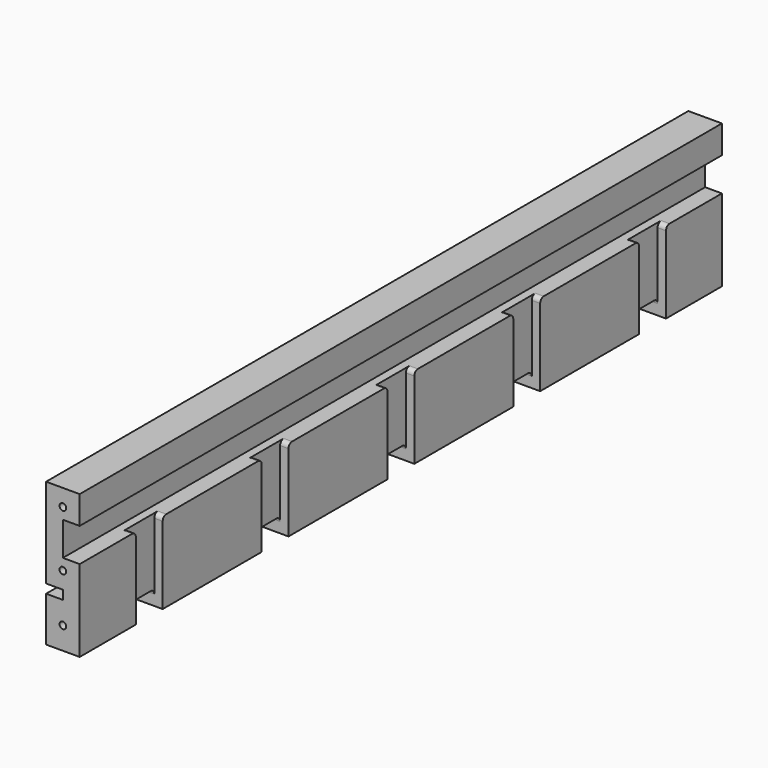
from build123d import *

# Parameters (mm, degrees)
SKETCH_W               = 358.3
SKETCH_H               = 64
PAD_DEPTH              = 15
SKETCH001_W            = 358.3
SKETCH001_H            = 4
POCKET_DEPTH           = 7.5
SKETCH002_R            = 1.5
POCKET001_DEPTH        = 20
SKETCH003_R            = 1.5
POCKET002_DEPTH        = 20
POCKET003_DEPTH        = 7.5
POCKET004_DEPTH        = 3.75
LINEARPATTERN_COUNT    = 5
LINEARPATTERN_PITCH    = 70.2
POCKET005_DEPTH        = 739.810922
LINEARPATTERN001_COUNT = 5
LINEARPATTERN001_PITCH = 70.2


with BuildPart() as part:
    # Sketch → Pad (new body)
    with BuildSketch(Plane.YZ):
        with Locations((179.15, 32)):
            Rectangle(SKETCH_W, SKETCH_H)
    extrude(amount=PAD_DEPTH)

    # Sketch001 (on Face5 of Pad) → Pocket (cut)
    with BuildSketch(Plane(origin=(0, 0, 0), x_dir=(0, 1, 0), z_dir=(-1, 0, 0))):
        with Locations((179.15, -22)):
            Rectangle(SKETCH001_W, SKETCH001_H)
    extrude(amount=-POCKET_DEPTH, mode=Mode.SUBTRACT)

    # Sketch002 (on Face3 of Pocket) → Pocket001 (cut)
    with BuildSketch(Plane(origin=(0, 0, 0), x_dir=(0, 0, -1), z_dir=(0, -1, 0))):
        with Locations((-56.5, 7.5)):
            Circle(SKETCH002_R)
        with Locations((-31.5, 7.5)):
            Circle(SKETCH002_R)
        with Locations((-10, 7.5)):
            Circle(SKETCH002_R)
    extrude(amount=-POCKET001_DEPTH, mode=Mode.SUBTRACT)

    # Sketch003 (on Face2 of Pocket001) → Pocket002 (cut)
    with BuildSketch(Plane.ZX.offset(358.3)):
        with Locations((10, 7.5)):
            Circle(SKETCH003_R)
        with Locations((31.5, 7.5)):
            Circle(SKETCH003_R)
        with Locations((56.5, 7.5)):
            Circle(SKETCH003_R)
    extrude(amount=-POCKET002_DEPTH, mode=Mode.SUBTRACT)

    # Sketch004 (on Face5 of Pocket002) → Pocket003 (cut)
    with BuildSketch(Plane.YZ.offset(15)):
        Polygon((0, 36.5), (358.3, 36.5), (358.3, 51.5), (0, 51.5), (0, 44), align=None)
    extrude(amount=-POCKET003_DEPTH, mode=Mode.SUBTRACT)

    # Sketch005 (on Face5 of Pocket003) → Pocket004 (cut)
    with BuildSketch(Plane.YZ.offset(15)):
        with BuildLine():
            Line((46.3, 34.5), (46.3, 0))
            Line((46.3, 0), (31.3, 0))
            Line((31.3, 0), (31.3, 34.5))
            ThreePointArc((31.3, 34.5), (30.714214, 35.914214), (29.3, 36.5))
            Line((29.3, 36.5), (48.3, 36.5))
            ThreePointArc((48.3, 36.5), (46.885786, 35.914214), (46.3, 34.5))
        make_face()
    pocket004 = extrude(amount=-POCKET004_DEPTH, mode=Mode.SUBTRACT)

    # LinearPattern: Pocket004 ×5
    with Locations(*[(0, i * LINEARPATTERN_PITCH, 0) for i in range(1, LINEARPATTERN_COUNT)]):
        add(pocket004, mode=Mode.SUBTRACT)

    # Sketch006 (on Face6 of MultiTransform) → Pocket005 (cut, through all)
    with BuildSketch(Plane.YZ.offset(11.25)):
        with BuildLine():
            Line((31.3, 0), (46.3, 0))
            Line((46.3, 0), (46.3, 4.666667))
            ThreePointArc((46.3, 4.666667), (45.714214, 6.08088), (44.3, 6.666667))
            Line((44.3, 6.666667), (33.3, 6.666667))
            ThreePointArc((33.3, 6.666667), (31.885786, 6.08088), (31.3, 4.666667))
            Line((31.3, 4.666667), (31.3, 0))
        make_face()
    pocket005 = extrude(amount=-POCKET005_DEPTH, mode=Mode.SUBTRACT)

    # LinearPattern001: Pocket005 ×5
    with Locations(*[(0, i * LINEARPATTERN001_PITCH, 0) for i in range(1, LINEARPATTERN001_COUNT)]):
        add(pocket005, mode=Mode.SUBTRACT)


solid = part.part
